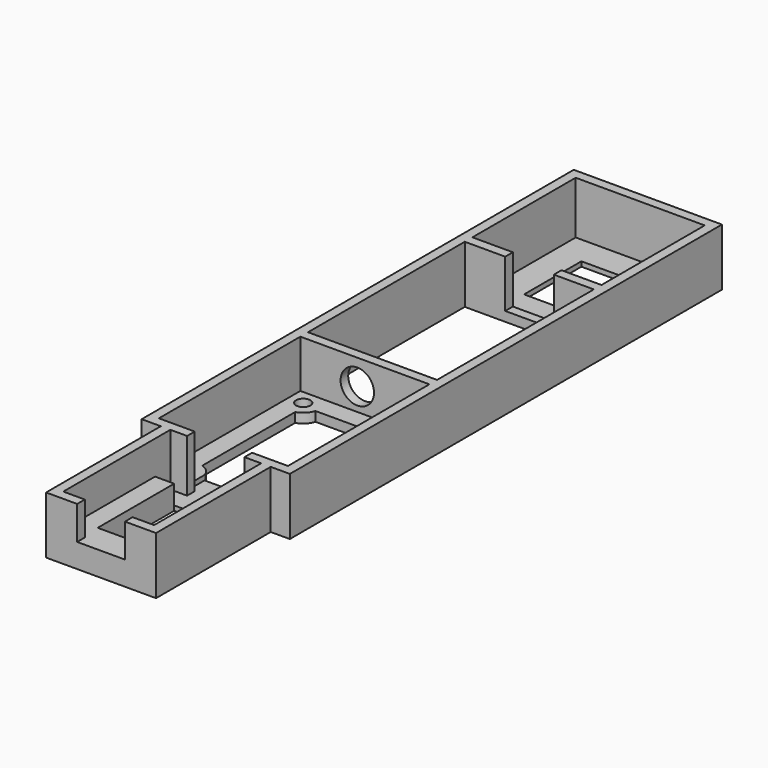
from build123d import *

# Parameters (mm, degrees)
F0_W      = 31
F0_H      = 41
F1_DEPTH  = 12
F2_T      = -2
F3_R      = 1.5
F4_DEPTH  = 25
F6_DEPTH  = 25
F7_W      = 14.291796
F7_H      = 4
F8_DEPTH  = 1
F9_W      = 12
F9_H      = 2
F10_DEPTH = 11
F11_W     = 23
F11_H     = 30
F12_DEPTH = 12
F13_W     = 19
F13_H     = 28
F14_DEPTH = 7
F15_W     = 19
F15_H     = 4
F16_DEPTH = 4
F18_DEPTH = 25
F19_R     = 3.5
F20_DEPTH = 25
F21_W     = 27
F21_H     = 27
F22_DEPTH = 12
F23_W     = 27
F23_H     = 27
F23_W_2   = 15
F23_H_2   = 15
F24_DEPTH = 1
F25_W     = 10.156876
F25_H     = 2
F26_DEPTH = 10
F27_W     = 10
F27_H     = 2
F28_DEPTH = 7


with BuildPart() as f1:
    # F0 (on Top) → F1 (new body)
    with BuildSketch(Plane.XY):
        with Locations((15.5, 20.5)):
            Rectangle(F0_W, F0_H)
    extrude(amount=F1_DEPTH)

    # F2
    f2_openings = [f1.faces().sort_by_distance(p)[0] for p in [
        (15.5, 20.5, 12),
    ]]
    offset(amount=F2_T, openings=f2_openings)

    # F3 (on face) → F4 (cut)
    with BuildSketch(Plane.XY.offset(2)):
        with Locations((5, 36)):
            Circle(F3_R)
        with Locations((26, 36)):
            Circle(F3_R)
        with Locations((26, 5)):
            Circle(F3_R)
        with Locations((5, 5)):
            Circle(F3_R)
    extrude(amount=-F4_DEPTH, mode=Mode.SUBTRACT)

    # F5 (on face) → F6 (cut)
    with BuildSketch(Plane.XY.offset(2)):
        with BuildLine():
            ThreePointArc((25, 32.645898), (23.525126, 33.525126), (22.645898, 35))
            Line((22.645898, 35), (8.354102, 35))
            ThreePointArc((8.354102, 35), (7.474874, 33.525126), (6, 32.645898))
            Line((6, 32.645898), (6, 8.354102))
            ThreePointArc((6, 8.354102), (7.474874, 7.474874), (8.354102, 6))
            Line((8.354102, 6), (22.645898, 6))
            ThreePointArc((22.645898, 6), (23.525126, 7.474874), (25, 8.354102))
            Line((25, 8.354102), (25, 32.645898))
        make_face()
    extrude(amount=-F6_DEPTH, mode=Mode.SUBTRACT)

    # F7 (on face) → F8 (cut)
    with BuildSketch(Plane.XY.offset(2)):
        with Locations((15.5, 4)):
            Rectangle(F7_W, F7_H)
    extrude(amount=-F8_DEPTH, mode=Mode.SUBTRACT)

    # F9 (on face) → F10 (cut)
    with BuildSketch(Plane.XY.offset(12)):
        with Locations((15.5, 1)):
            Rectangle(F9_W, F9_H)
    extrude(amount=-F10_DEPTH, mode=Mode.SUBTRACT)

    # F11 (on face) → F12 (join)
    with BuildSketch(Plane(origin=(0, 0, 0), x_dir=(1, 0, 0), z_dir=(0, 0, -1))):
        with Locations((15.5, 15)):
            Rectangle(F11_W, F11_H)
    extrude(amount=-F12_DEPTH)

    # F13 (on face) → F14 (cut)
    with BuildSketch(Plane.XY.offset(12)):
        with Locations((15.5, -14)):
            Rectangle(F13_W, F13_H)
    extrude(amount=-F14_DEPTH, mode=Mode.SUBTRACT)

    # F15 (on face) → F16 (cut)
    with BuildSketch(Plane.XY.offset(5)):
        with Locations((15.5, -2)):
            Rectangle(F15_W, F15_H)
    extrude(amount=-F16_DEPTH, mode=Mode.SUBTRACT)

    # F17 (on face) → F18 (cut)
    with BuildSketch(Plane.XY.offset(5)):
        Polygon((25, -4), (21, -4), (10, -4), (10, -24), (21, -24), (21, -20), (25, -20), align=None)
    extrude(amount=-F18_DEPTH, mode=Mode.SUBTRACT)

    # F19 (on face) → F20 (cut)
    with BuildSketch(Plane.XZ.offset(-39)):
        with Locations((13.913386, 6.684771)):
            Circle(F19_R)
    extrude(amount=-F20_DEPTH, mode=Mode.SUBTRACT)

    # F21 (on face) → F22 (join)
    with BuildSketch(Plane.XY.offset(12)):
        Polygon((29, 41), (31, 41), (31, 113), (0, 113), (0, 41), (2, 41), (2, 82), (29, 82), align=None)
        with Locations((15.5, 97.5)):
            Rectangle(F21_W, F21_H, mode=Mode.SUBTRACT)
    extrude(amount=-F22_DEPTH)

    # F23 (on face) → F24 (join)
    with BuildSketch(Plane(origin=(0, 0, 0), x_dir=(1, 0, 0), z_dir=(0, 0, -1))):
        with Locations((15.5, -97.5)):
            Rectangle(F23_W, F23_H)
        with Locations((15.5, -97.5)):
            Rectangle(F23_W_2, F23_H_2, mode=Mode.SUBTRACT)
    extrude(amount=-F24_DEPTH)

    # F25 (on face) → F26 (cut)
    with BuildSketch(Plane.XY.offset(12)):
        with Locations((15.545943, 83)):
            Rectangle(F25_W, F25_H)
    extrude(amount=-F26_DEPTH, mode=Mode.SUBTRACT)

    # F27 (on face) → F28 (cut)
    with BuildSketch(Plane.XY.offset(12)):
        with Locations((15.5, -29)):
            Rectangle(F27_W, F27_H)
    extrude(amount=-F28_DEPTH, mode=Mode.SUBTRACT)


solid = f1.part
